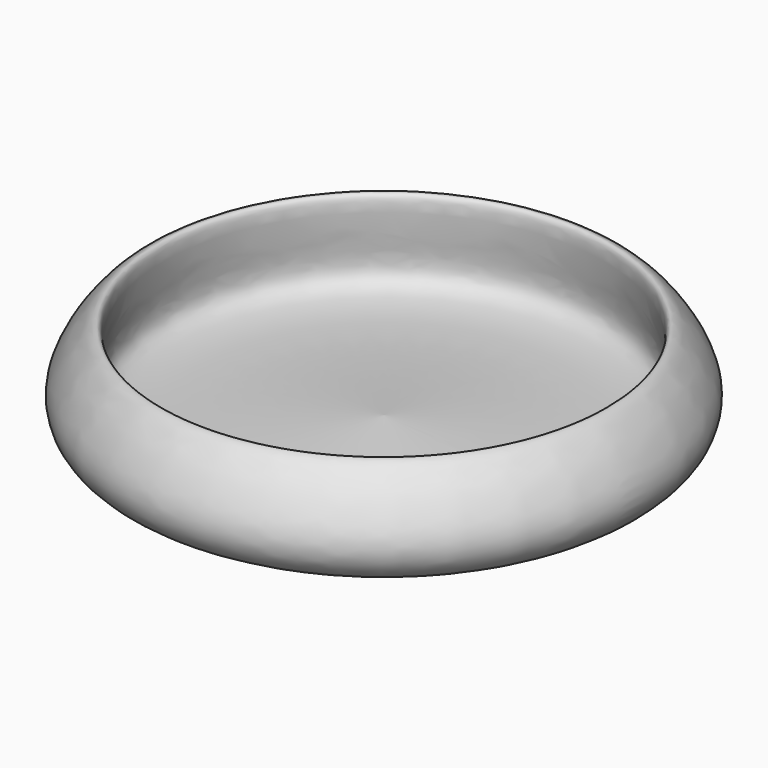
from build123d import *


with BuildPart() as f1:
    # F0 (on Front) → F1 (revolve)
    with BuildSketch(Plane.XZ):
        with BuildLine():
            add(Edge.make_bspline(
                [(39.0611998737, 0), (40.8726961232, 0.6778753964), (44.7150982482, 2.1157309063), (47.9369923589, 9.3649607453), (36.8971278907, 23.0391936597), (39.3145899466, 9.359223944), (39.7236469565, 0.9385864906), (16.6160976769, 2.8698345258), (0, 4.2585497722)],
                knots=[0, 0, 0, 0, 0.1207432548, 0.2561110127, 0.422601004, 0.567568199, 0.6890484163, 1, 1, 1, 1], degree=3))
            Line((0, 4.2585497722), (0, 0))
            Line((0, 0), (39.0611998737, 0))
        make_face()
    revolve(axis=Axis((0, 0, 2.1292748861), (0, 0, -1)))


solid = f1.part
